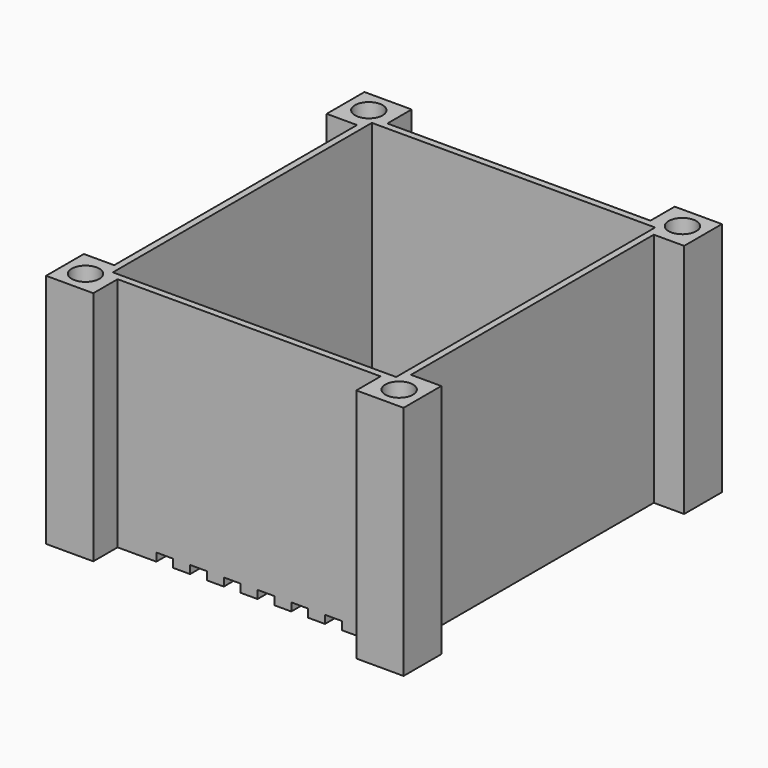
from build123d import *

# Parameters (mm, degrees)
F0_W     = 2.5
F0_H     = 2.5
F1_DEPTH = 35
F2_R     = 2.05
F3_DEPTH = 35
F4_W     = 42
F4_H     = 48
F5_DEPTH = 32
F6_W     = 2.5
F6_H     = 1.2
F7_DEPTH = 50


with BuildPart() as f1:
    # F0 (on Top) → F1 (new body)
    with BuildSketch(Plane.XY):
        Polygon((-22, 22.5), (-22, 25), (-19.5, 25), (-19.5, 29.5), (-26.5, 29.5), (-26.5, 22.5), align=None)
        with Locations((-20.75, 23.75)):
            Rectangle(F0_W, F0_H)
        Polygon((19.5, 25), (-19.5, 25), (-19.5, 22.5), (-22, 22.5), (-22, -22.5), (-19.5, -22.5), (-19.5, -25), (19.5, -25), (19.5, -22.5), (22, -22.5), (22, 22.5), (19.5, 22.5), align=None)
        Polygon((19.5, 29.5), (19.5, 25), (22, 25), (22, 22.5), (26.5, 22.5), (26.5, 29.5), align=None)
        with Locations((20.75, 23.75)):
            Rectangle(F0_W, F0_H)
        with Locations((-20.75, -23.75)):
            Rectangle(F0_W, F0_H)
        Polygon((-22, -25), (-22, -22.5), (-26.5, -22.5), (-26.5, -29.5), (-19.5, -29.5), (-19.5, -25), align=None)
        Polygon((26.5, -22.5), (22, -22.5), (22, -25), (19.5, -25), (19.5, -29.5), (26.5, -29.5), align=None)
        with Locations((20.75, -23.75)):
            Rectangle(F0_W, F0_H)
    extrude(amount=F1_DEPTH)

    # F2 (on face) → F3 (cut, through all)
    with BuildSketch(Plane.XY.offset(35)):
        with Locations((-23.25, 26.25)):
            Circle(F2_R)
        with Locations((23.25, 26.25)):
            Circle(F2_R)
        with Locations((-23.25, -26.25)):
            Circle(F2_R)
        with Locations((23.25, -26.25)):
            Circle(F2_R)
    extrude(amount=-F3_DEPTH, mode=Mode.SUBTRACT)

    # F4 (on face) → F5 (cut)
    with BuildSketch(Plane.XY.offset(35)):
        Rectangle(F4_W, F4_H)
    extrude(amount=-F5_DEPTH, mode=Mode.SUBTRACT)

    # F6 (on face) → F7 (cut, through all)
    with BuildSketch(Plane(origin=(0, 25, 0), x_dir=(-1, 0, 0), z_dir=(0, 1, 0))):
        with Locations((12.5, 0.6)):
            Rectangle(F6_W, F6_H)
        with Locations((7.5, 0.6)):
            Rectangle(F6_W, F6_H)
        with Locations((2.5, 0.6)):
            Rectangle(F6_W, F6_H)
        with Locations((-2.5, 0.6)):
            Rectangle(F6_W, F6_H)
        with Locations((-7.5, 0.6)):
            Rectangle(F6_W, F6_H)
        with Locations((-12.5, 0.6)):
            Rectangle(F6_W, F6_H)
    extrude(amount=-F7_DEPTH, mode=Mode.SUBTRACT)


solid = f1.part
